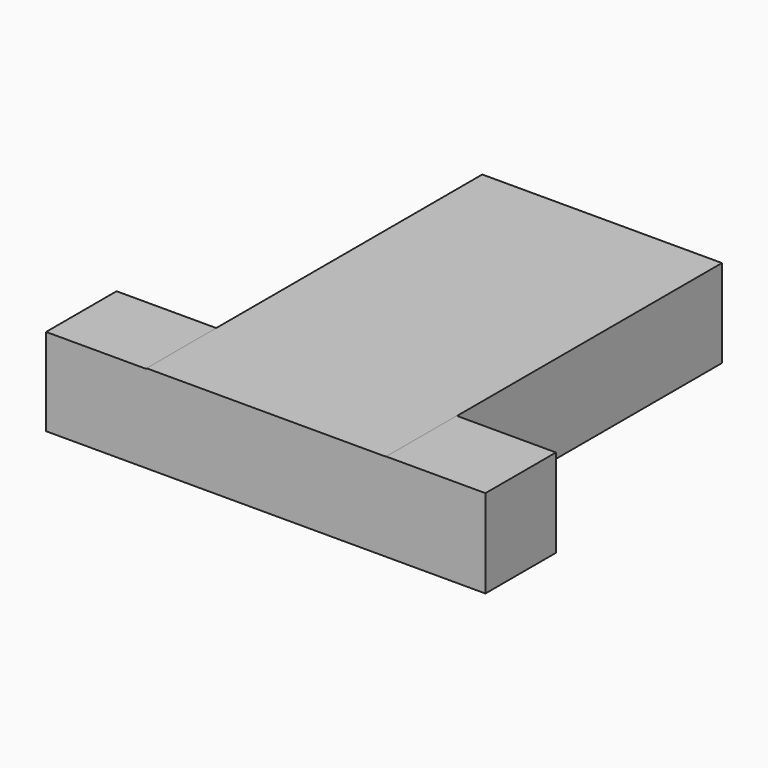
from build123d import *

# Parameters (mm, degrees)
F0_W     = 69.0733827651
F0_H     = 95.5515131354
F1_DEPTH = 25.4
F2_W     = 28.6007858813
F2_H     = 25.4682730883
F2_W_2   = 28.9632454515
F2_H_2   = 25.2022650093
F3_DEPTH = 25.4


with BuildPart() as f1:
    # F0 (on Top) → F1 (new body)
    with BuildSketch(Plane.XY):
        with Locations((0.1439023763, -0.1439042389)):
            Rectangle(F0_W, F0_H)
    extrude(amount=F1_DEPTH)

    # F2 (on face) → F3 (join)
    with BuildSketch(Plane.XZ.offset(47.9196608067)):
        with Locations((48.9809866995, 12.7341365442)):
            Rectangle(F2_W, F2_H)
        with Locations((-48.874411732, 12.6011325046)):
            Rectangle(F2_W_2, F2_H_2)
        Polygon((-34.3927890062, 0), (34.6805937588, 0), (34.6805937588, 25.4), (-34.3927890062, 25.4), (-34.3927890062, 25.2022650093), align=None)
    extrude(amount=F3_DEPTH)


solid = f1.part
